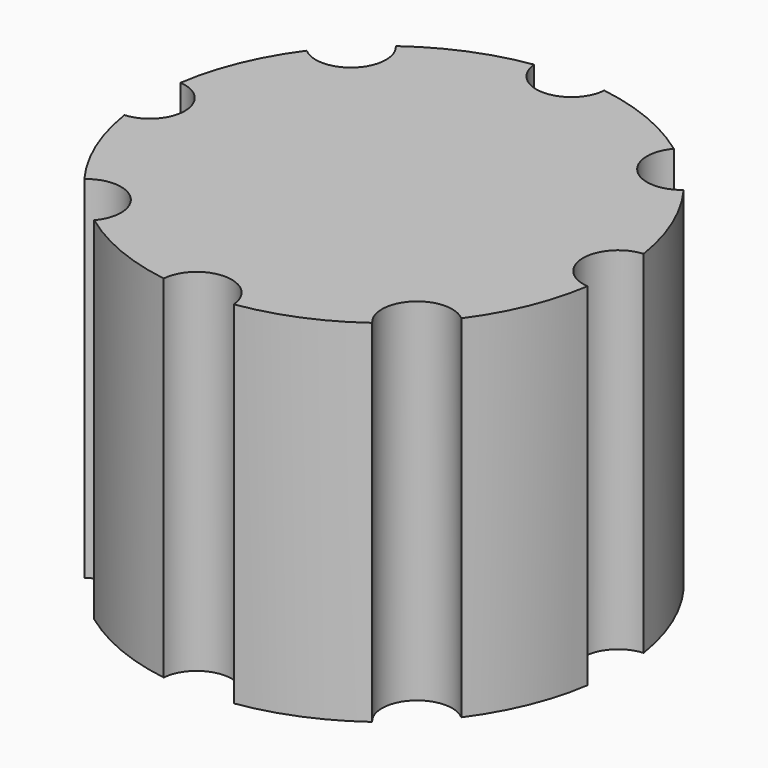
from build123d import *

# Parameters (mm, degrees)
CYLINDER001_R     = 1.5
CYLINDER001_DEPTH = 40
ARRAY_COUNT       = 8
CYLINDER_R        = 10
CYLINDER_DEPTH    = 15


with BuildPart() as array:
    # Cylinder001 → Cylinder001 (new body)
    with BuildSketch(Plane.XY):
        Circle(CYLINDER001_R)
    extrude(amount=CYLINDER001_DEPTH)

    # Array: Array ×8 about axis
    array_axis = Axis((0, 10, 0), (0, 0, 1))


with BuildPart() as array_1:
    add(array.part)
    for i in range(1, ARRAY_COUNT):
        add(array.part.rotate(array_axis, i * 360 / ARRAY_COUNT))


with BuildPart() as cut:
    # Cylinder → Cylinder (new body)
    with BuildSketch(Plane(origin=(0, 10, 0), x_dir=(1, 0, 0), z_dir=(0, 0, 1))):
        Circle(CYLINDER_R)
    extrude(amount=CYLINDER_DEPTH)

    # Cut: cut Array
    add(array_1.part, mode=Mode.SUBTRACT)


solid = cut.part
